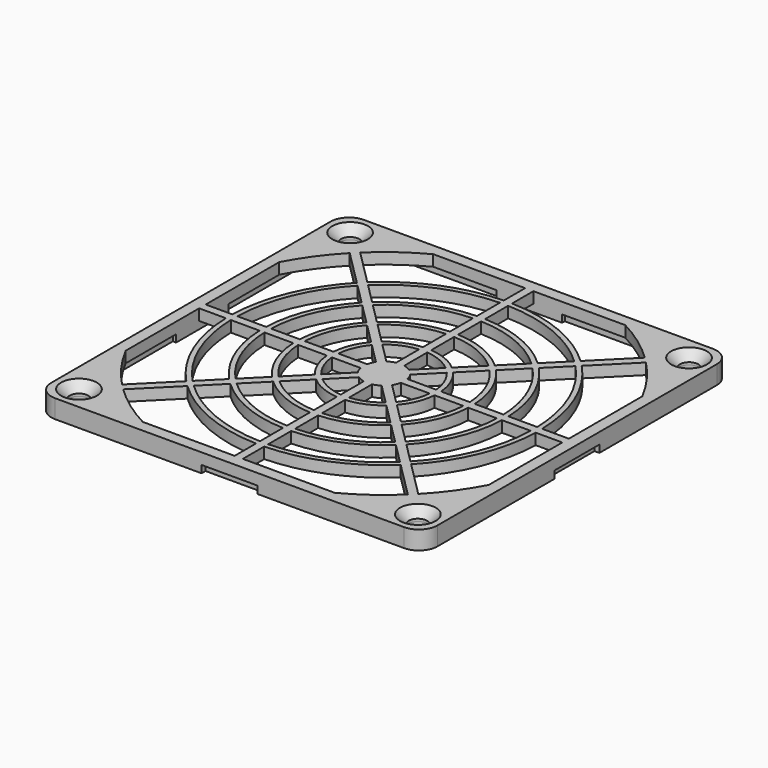
from build123d import *

# Parameters (mm, degrees)
SKETCH1066_W          = 94
SKETCH1066_H          = 94
PAD527_DEPTH          = 4.5
SKETCH1067_W          = 1.2
SKETCH1067_H          = 6.8
SKETCH1067_W_2        = 6.8
SKETCH1067_H_2        = 1.2
POCKET512_DEPTH       = 1.8
POCKET513_DEPTH       = 270.5254349679
POLARPATTERN027_COUNT = 4
PAD528_DEPTH          = 2.7
POLARPATTERN029_COUNT = 8
SKETCH1070_R          = 2.25
POCKET514_DEPTH       = 0.001
POCKET514_DEPTH_BACK  = 4.501
SKETCH1071_R          = 2.35
PAD529_DEPTH          = 1.8
POLARPATTERN030_COUNT = 4
CHAMFER173_SIZE       = 2.1
FILLET180_R           = 4.5


with BuildPart() as part:
    # Sketch1066 → Pad527 (new body)
    with BuildSketch(Plane.XY):
        Rectangle(SKETCH1066_W, SKETCH1066_H)
    extrude(amount=PAD527_DEPTH)

    # Sketch1067 (on Face5 of Pad527) → Pocket512 (cut)
    with BuildSketch(Plane(origin=(0, 0, 0), x_dir=(1, 0, 0), z_dir=(0, 0, -1))):
        Polygon((-45, 45), (-8, 45), (-8, 44.2), (0, 44.2), (0, 0), (-44.2, 0), (-44.2, 8), (-45, 8), align=None)
        with Locations((-46.4, 3.4)):
            Rectangle(SKETCH1067_W, SKETCH1067_H)
        with Locations((-3.4, 46.4)):
            Rectangle(SKETCH1067_W_2, SKETCH1067_H_2)
    pocket512 = extrude(amount=-POCKET512_DEPTH, mode=Mode.SUBTRACT)

    # Sketch1068 → Pocket513 (cut, through all)
    with BuildSketch(Plane(origin=(0, 0, 0), x_dir=(-1, 0, 0), z_dir=(0, 0, -1))):
        with BuildLine():
            ThreePointArc((23.3743449106, -44.2), (29.2922080084, -40.5211864337), (34.6411605031, -36.0553740655))
            Line((2.756994834, -4.1712083963), (34.6411605031, -36.0553740655))
            ThreePointArc((1, -4.8989794856), (1.9134171618, -4.6193976626), (2.756994834, -4.1712083963))
            Line((1, -4.8989794856), (1, -44.2))
            Line((1, -44.2), (23.3743449106, -44.2))
        make_face()
        with BuildLine():
            Line((4.8989794856, -1), (44.2, -1))
            Line((44.2, -1), (44.2, -23.3743449106))
            ThreePointArc((36.0553740655, -34.6411605031), (40.5211864337, -29.2922080084), (44.2, -23.3743449106))
            Line((4.1712083963, -2.756994834), (36.0553740655, -34.6411605031))
            ThreePointArc((4.1712083963, -2.756994834), (4.6193976626, -1.9134171618), (4.8989794856, -1))
        make_face()
    pocket513 = extrude(amount=-POCKET513_DEPTH, mode=Mode.SUBTRACT)

    # PolarPattern027: Pocket512, Pocket513 ×4 about axis
    polarpattern027_axis = Axis((0, 0, 0), (0, 0, -1))
    for i in range(1, POLARPATTERN027_COUNT):
        add(pocket512.rotate(polarpattern027_axis, i * 360 / POLARPATTERN027_COUNT), mode=Mode.SUBTRACT)
        add(pocket513.rotate(polarpattern027_axis, i * 360 / POLARPATTERN027_COUNT), mode=Mode.SUBTRACT)

    # Sketch1069 (on Face67 of PolarPattern027) → Pad528 (join)
    with BuildSketch(Plane(origin=(0, 0, 1.8), x_dir=(1, 0, 0), z_dir=(0, 0, -1))):
        with BuildLine():
            ThreePointArc((-1, 21.2989794856), (-8.1597452397, 19.6993676231), (-14.3535460454, 15.7677596078))
            Line((-14.3535460454, 15.7677596078), (-13.505017908, 14.9192314704))
            ThreePointArc((-1, 20.0989794856), (-7.701060544, 18.5920048101), (-13.505017908, 14.9192314704))
            Line((-1, 21.2989794856), (-1, 20.0989794856))
        make_face()
        with BuildLine():
            ThreePointArc((-1, 28.2989794856), (-10.8363099277, 26.1611663936), (-19.3032935137, 20.7175070761))
            Line((-19.3032935137, 20.7175070761), (-20.1518216511, 21.5660352135))
            ThreePointArc((-1, 29.4989794856), (-11.2952552426, 27.2691583972), (-20.1518216511, 21.5660352135))
            Line((-1, 28.2989794856), (-1, 29.4989794856))
        make_face()
        with BuildLine():
            ThreePointArc((-1, 36.4989794856), (-13.9727961493, 33.7333139679), (-25.1015691194, 26.5157826818))
            Line((-25.1015691194, 26.5157826818), (-25.9500972569, 27.3643108192))
            ThreePointArc((-1, 37.6989794856), (-14.4318494882, 34.8415667645), (-25.9500972569, 27.3643108192))
            Line((-1, 36.4989794856), (-1, 37.6989794856))
        make_face()
        with BuildLine():
            ThreePointArc((-1, 13.0989794856), (-5.0273485844, 12.1370931353), (-8.5552704397, 9.9694840021))
            Line((-8.5552704397, 9.9694840021), (-7.7067423023, 9.1209558646))
            ThreePointArc((-1, 11.8989794856), (-4.5695945322, 11.0319770943), (-7.7067423023, 9.1209558646))
            Line((-1, 13.0989794856), (-1, 11.8989794856))
        make_face()
    pad528 = extrude(amount=-PAD528_DEPTH)

    # PolarPattern029: Pad528 ×8 about axis
    polarpattern029_axis = Axis((0, 0, 1.8), (0, 0, -1))
    for i in range(1, POLARPATTERN029_COUNT):
        add(pad528.rotate(polarpattern029_axis, i * 360 / POLARPATTERN029_COUNT))

    # Sketch1070 → Pocket514 (cut, two sides)
    with BuildSketch(Plane.XY) as pocket514_sk:
        with Locations((41.25, -41.25)):
            Circle(SKETCH1070_R)
        with Locations((-41.25, -41.25)):
            Circle(SKETCH1070_R)
        with Locations((-41.25, 41.25)):
            Circle(SKETCH1070_R)
        with Locations((41.25, 41.25)):
            Circle(SKETCH1070_R)
    extrude(amount=-POCKET514_DEPTH, mode=Mode.SUBTRACT)
    extrude(pocket514_sk.sketch, amount=POCKET514_DEPTH_BACK, mode=Mode.SUBTRACT)

    # Sketch1071 (on Face5 of Pocket514) → Pad529 (join)
    with BuildSketch(Plane(origin=(0, 0, 1.8), x_dir=(1, 0, 0), z_dir=(0, 0, -1))):
        with BuildLine():
            ThreePointArc((-41.25, 36.25), (-37.7144660941, 37.7144660941), (-36.25, 41.25))
            Line((-36.25, 41.25), (-36.25, 45))
            Line((-36.25, 45), (-45, 45))
            Line((-45, 36.25), (-45, 45))
            Line((-41.25, 36.25), (-45, 36.25))
        make_face()
        with Locations((-41.25, 41.25)):
            Circle(SKETCH1071_R, mode=Mode.SUBTRACT)
    pad529 = extrude(amount=PAD529_DEPTH)

    # PolarPattern030: Pad529 ×4 about axis
    polarpattern030_axis = Axis((0, 0, 1.8), (0, 0, -1))
    for i in range(1, POLARPATTERN030_COUNT):
        add(pad529.rotate(polarpattern030_axis, i * 360 / POLARPATTERN030_COUNT))

    # Chamfer173
    chamfer173_edges = [part.edges().sort_by_distance(p)[0] for p in [
        (-43.5, 41.25, 4.5),
        (-43.5, -41.25, 4.5),
        (39, -41.25, 4.5),
        (39, 41.25, 4.5),
    ]]
    chamfer(chamfer173_edges, length=CHAMFER173_SIZE)

    # Fillet180
    fillet180_edges = [part.edges().sort_by_distance(p)[0] for p in [
        (-47, 47, 2.25),
        (-47, -47, 2.25),
        (47, -47, 2.25),
        (47, 47, 2.25),
    ]]
    fillet(fillet180_edges, radius=FILLET180_R)


solid = part.part
